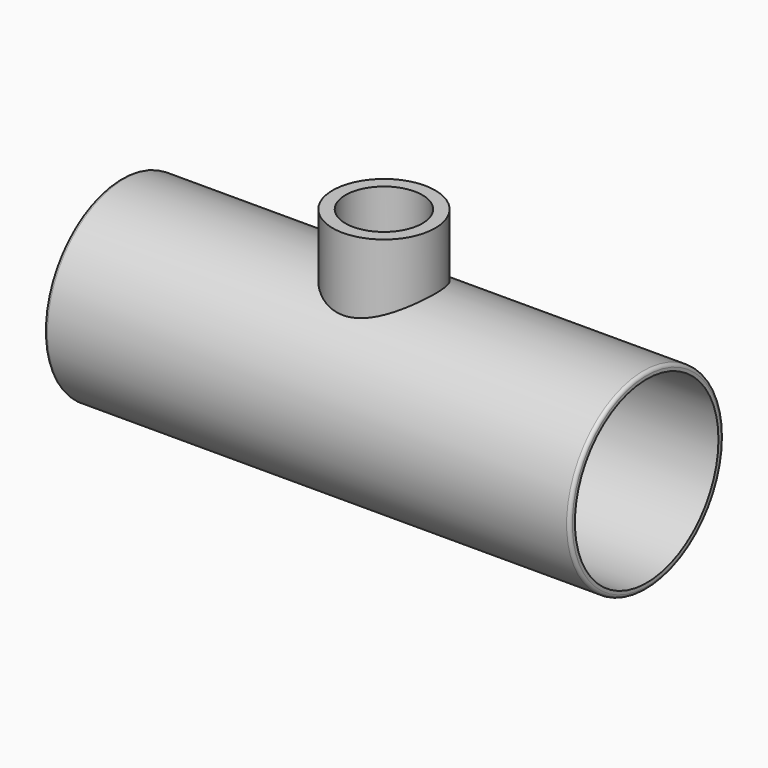
from build123d import *

# Parameters (mm, degrees)
F0_R     = 19.05
F0_R_2   = 17.78
F1_DEPTH = 52.07
F2_R     = 0.635
F3_R     = 10.16
F3_R_2   = 7.62
F4_DEPTH = 30.48
F5_R     = 7.62
F6_DEPTH = 30.4810001
F8_DEPTH = 25.4


with BuildPart() as f1:
    # F0 (on Right) → F1 (new body, symmetric)
    with BuildSketch(Plane.YZ):
        Circle(F0_R)
        Circle(F0_R_2, mode=Mode.SUBTRACT)
    extrude(amount=F1_DEPTH, both=True)

    # F2
    f2_edges = [f1.edges().sort_by_distance(p)[0] for p in [
        (52.07, -19.05, 0),
        (-52.07, -19.05, 0),
    ]]
    fillet(f2_edges, radius=F2_R)

    # F3 (on Top) → F4 (join)
    with BuildSketch(Plane.XY):
        Circle(F3_R)
        Circle(F3_R_2, mode=Mode.SUBTRACT)
    extrude(amount=F4_DEPTH)

    # F5 (on Top) → F6 (cut, through all)
    with BuildSketch(Plane.XY):
        Circle(F5_R)
    extrude(amount=F6_DEPTH, mode=Mode.SUBTRACT)

    # F7 (on Right) → F8 (cut, symmetric)
    with BuildSketch(Plane.YZ):
        with BuildLine():
            Line((-10.16, 12.7), (-10.16, 14.5911891222))
            ThreePointArc((-10.16, 14.5911891222), (0, -17.78), (10.16, 14.5911891222))
            Line((10.16, 14.5911891222), (10.16, 12.7))
            Line((10.16, 12.7), (-10.16, 12.7))
        make_face()
    extrude(amount=F8_DEPTH, both=True, mode=Mode.SUBTRACT)


solid = f1.part
